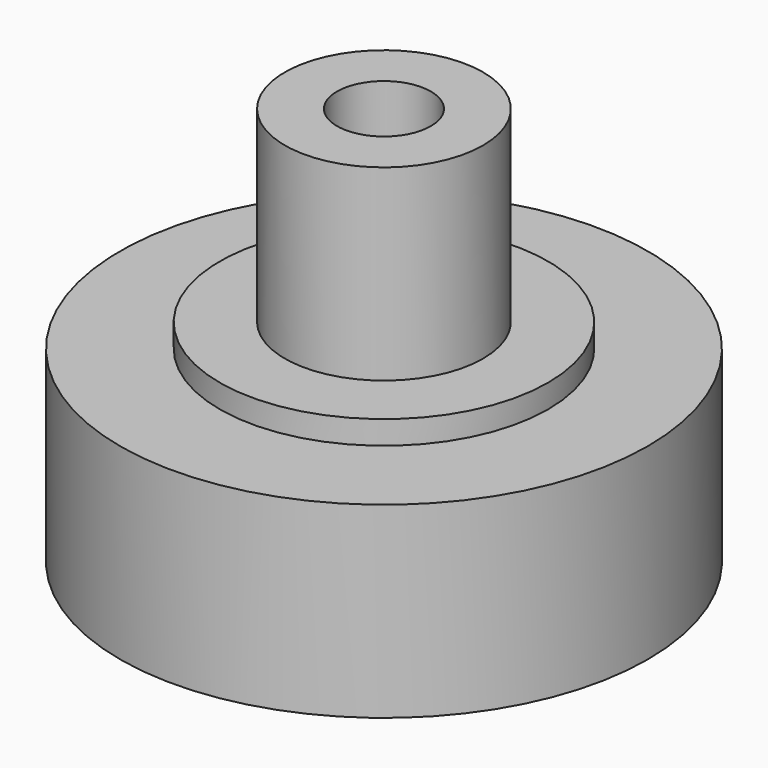
from build123d import *

# Parameters (mm, degrees)
SKETCH_R        = 4.225
PAD_DEPTH       = 8
SKETCH001_R     = 7
PAD001_DEPTH    = 1
SKETCH002_R     = 11.25
PAD002_DEPTH    = 8
SKETCH003_R     = 2
POCKET_DEPTH    = 17.001
SKETCH004_R     = 3.25
POCKET001_DEPTH = 3


with BuildPart() as part:
    # Sketch → Pad (new body)
    with BuildSketch(Plane.XY):
        Circle(SKETCH_R)
    extrude(amount=PAD_DEPTH)

    # Sketch001 → Pad001 (join)
    with BuildSketch(Plane.XY):
        Circle(SKETCH001_R)
    extrude(amount=-PAD001_DEPTH)

    # Sketch002 (on Face3 of Pad001) → Pad002 (join)
    with BuildSketch(Plane(origin=(0, 0, -1), x_dir=(1, 0, 0), z_dir=(0, 0, -1))):
        Circle(SKETCH002_R)
    extrude(amount=PAD002_DEPTH)

    # Sketch003 (on Face3 of Pad002) → Pocket (cut, through all)
    with BuildSketch(Plane(origin=(0, 0, -9), x_dir=(1, 0, 0), z_dir=(0, 0, -1))):
        Circle(SKETCH003_R)
    extrude(amount=-POCKET_DEPTH, mode=Mode.SUBTRACT)

    # Sketch004 (on Face3 of Pocket) → Pocket001 (cut)
    with BuildSketch(Plane(origin=(0, 0, -9), x_dir=(1, 0, 0), z_dir=(0, 0, -1))):
        Circle(SKETCH004_R)
    extrude(amount=-POCKET001_DEPTH, mode=Mode.SUBTRACT)


solid = part.part
